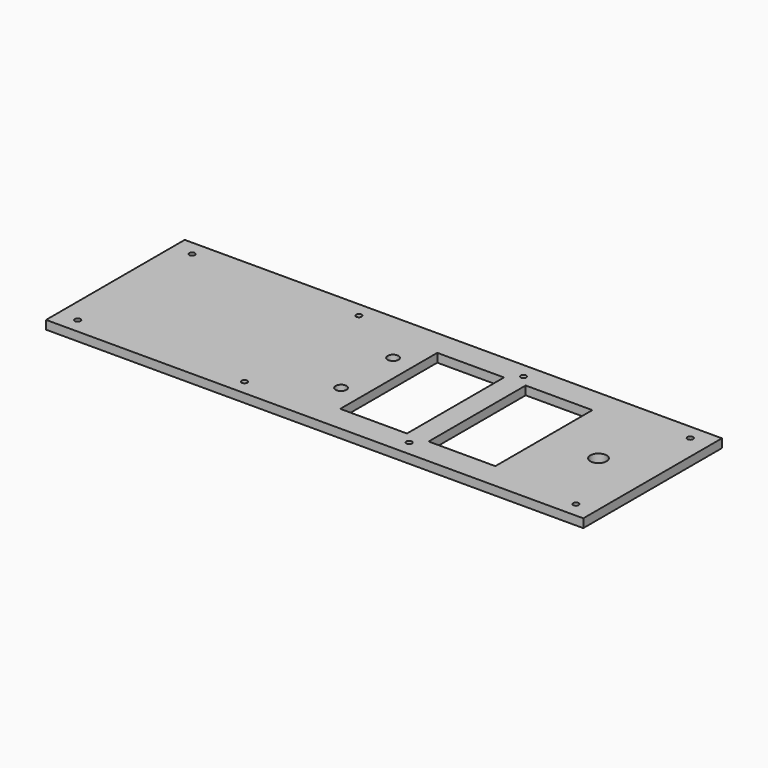
from build123d import *

# Parameters (mm, degrees)
F0_W     = 314.96
F0_H     = 101.6
F0_W_2   = 39.116
F0_H_2   = 71.12
F0_R     = 4.7625
F1_DEPTH = 5.08
F2_D     = 3.302
F3_D     = 6.35


with BuildPart() as f1:
    # F0 (on Top) → F1 (new body)
    with BuildSketch(Plane.XY):
        with Locations((25.4, -8.1075665182)):
            Rectangle(F0_W, F0_H)
        with Locations((47.752, -8.1075665182)):
            Rectangle(F0_W_2, F0_H_2, mode=Mode.SUBTRACT)
        with Locations((99.568, -8.1075665182)):
            Rectangle(F0_W_2, F0_H_2, mode=Mode.SUBTRACT)
        with Locations((151.13, -8.1075665182)):
            Circle(F0_R, mode=Mode.SUBTRACT)
    extrude(amount=F1_DEPTH)

    # F2 (through all)
    with Locations(Plane(origin=(0, 0, 0), x_dir=(1, 0, 0), z_dir=(0, 0, -1))):
        with Locations((-120.65, -33.8024334818), (-22.86, -33.8024334818), (73.66, -33.8024334818), (171.45, -33.8024334818), (171.45, 50.0175665182), (73.66, 50.0175665182), (-22.86, 50.0175665182), (-120.65, 50.0175665182)):
            Hole(F2_D / 2)

    # F3 (through all)
    with Locations(Plane(origin=(0, 0, 0), x_dir=(1, 0, 0), z_dir=(0, 0, -1))):
        with Locations((15.494, -10.9424334818), (15.494, 27.1575665182)):
            Hole(F3_D / 2)


solid = f1.part
